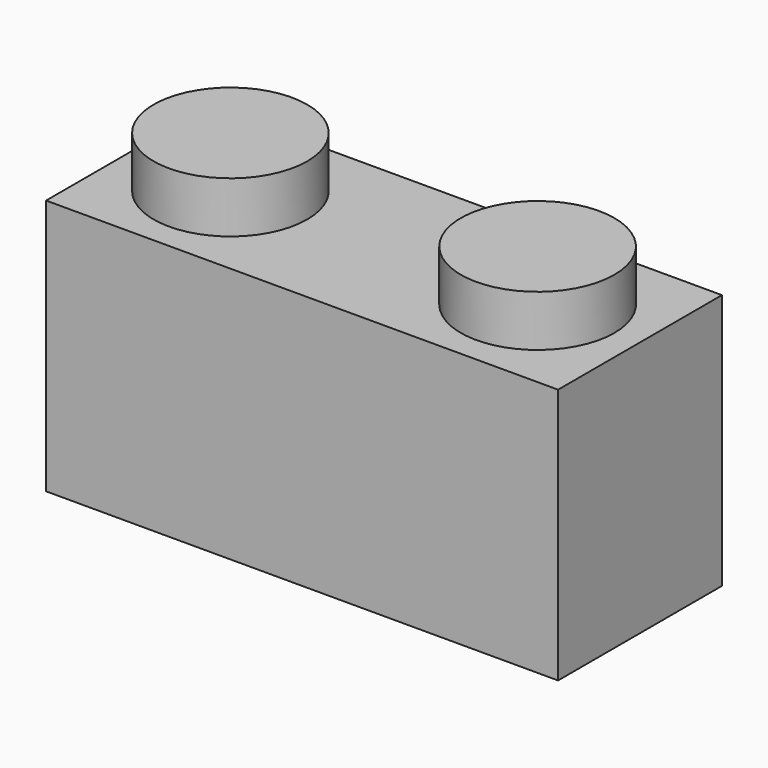
from build123d import *

# Parameters (mm, degrees)
F0_W     = 10
F0_H     = 4
F1_DEPTH = 5
F2_R     = 1.5
F3_DEPTH = 1
F4_W     = 9
F4_H     = 3
F5_DEPTH = 4


with BuildPart() as f1:
    # F0 (on Top) → F1 (new body)
    with BuildSketch(Plane.XY):
        Rectangle(F0_W, F0_H)
    extrude(amount=F1_DEPTH)

    # F2 (on face) → F3 (join)
    with BuildSketch(Plane.XY.offset(5)):
        with Locations((-3, 0)):
            Circle(F2_R)
        with Locations((3, 0)):
            Circle(F2_R)
    extrude(amount=F3_DEPTH)

    # F4 (on face) → F5 (cut)
    with BuildSketch(Plane(origin=(0, 0, 0), x_dir=(1, 0, 0), z_dir=(0, 0, -1))):
        Rectangle(F4_W, F4_H)
    extrude(amount=-F5_DEPTH, mode=Mode.SUBTRACT)


solid = f1.part
